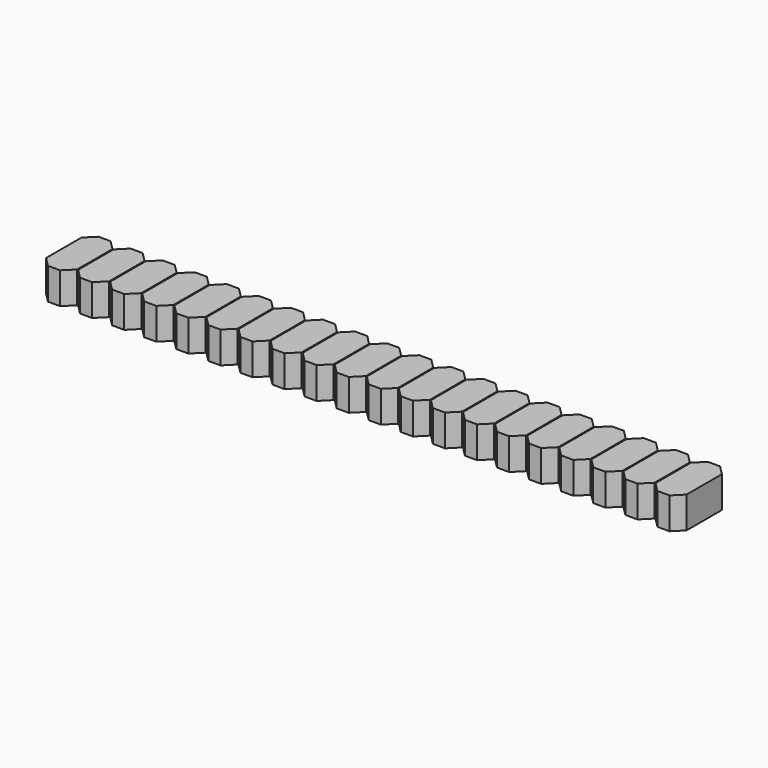
from build123d import *

# Parameters (mm, degrees)
BOX022_W         = 48.26
BOX022_H         = 3.2
BOX022_DEPTH     = 2.3
BOX021_W         = 2.46
BOX021_H         = 5
BOX021_DEPTH     = 2.5
CHAMFER002_SIZE  = 0.75
ARRAY008_X_COUNT = 20
ARRAY008_X_PITCH = 2.54


with BuildPart() as cube031:
    # Box022 → Box022 (new body)
    with BuildSketch(Plane(origin=(0, -0.33, 0.1), x_dir=(1, 0, 0), z_dir=(0, 0, 1))):
        with Locations((24.13, 1.6)):
            Rectangle(BOX022_W, BOX022_H)
    extrude(amount=BOX022_DEPTH)


with BuildPart() as body008:
    # Box021 → Box021 (new body)
    with BuildSketch(Plane(origin=(-1.23, -1.23, 0), x_dir=(1, 0, 0), z_dir=(0, 0, 1))):
        with Locations((1.23, 2.5)):
            Rectangle(BOX021_W, BOX021_H)
    extrude(amount=BOX021_DEPTH)

    # Chamfer002
    chamfer002_edges = [body008.edges().sort_by_distance(p)[0] for p in [
        (-1.23, -1.23, 1.25),
        (-1.23, 3.77, 1.25),
        (1.23, -1.23, 1.25),
        (1.23, 3.77, 1.25),
    ]]
    chamfer(chamfer002_edges, length=CHAMFER002_SIZE)

    # Array008 X: Body008 ×20


with BuildPart() as body008_1:
    add(body008.part)
    with Locations(*[(i * ARRAY008_X_PITCH, 0, 0) for i in range(1, ARRAY008_X_COUNT)]):
        add(body008.part)

    # Fusion020: union Cube031
    add(cube031.part)


solid = body008_1.part
